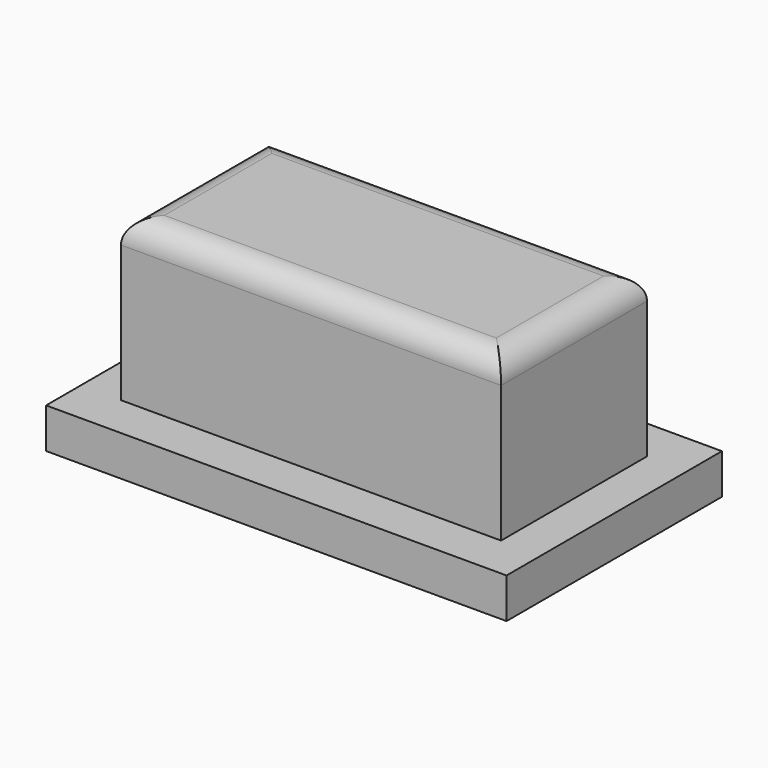
from build123d import *

# Parameters (mm, degrees)
F0_W     = 12.0142
F0_H     = 5.7658
F1_DEPTH = 5.08
F2_W     = 14.5542
F2_H     = 8.509
F3_DEPTH = 1.27
F4_R     = 0.762


with BuildPart() as f1:
    # F0 (on Top) → F1 (new body)
    with BuildSketch(Plane.XY):
        Rectangle(F0_W, F0_H)
    extrude(amount=F1_DEPTH)

    # F2 (on Top) → F3 (join)
    with BuildSketch(Plane.XY):
        Rectangle(F2_W, F2_H)
    extrude(amount=-F3_DEPTH)

    # F4
    f4_edges = [f1.edges().sort_by_distance(p)[0] for p in [
        (6.0071, 0, 5.08),
        (0, 2.8829, 5.08),
        (-6.0071, 0, 5.08),
        (0, -2.8829, 5.08),
    ]]
    fillet(f4_edges, radius=F4_R)


solid = f1.part
